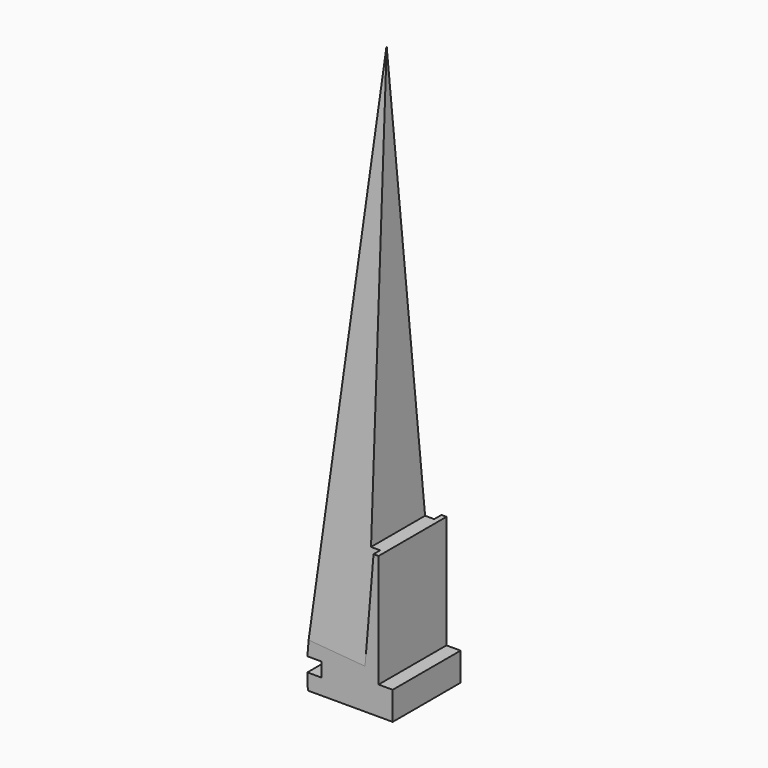
from build123d import *

# Parameters (mm, degrees)
F1_DEPTH = 76.2
F4_DEPTH = 25.4
F6_DEPTH = 25.4
F7_DEPTH = 25.4
F8_DEPTH = 25.4


with BuildPart() as f1:
    # F0 (on Front) → F1 (new body)
    with BuildSketch(Plane.XZ):
        Polygon((-40.0857904882, 1.7159489595), (36.1142095118, 1.7159489595), (36.1142095118, 27.1159489595), (23.4142095118, 27.1159489595), (23.4142095118, 128.7159489595), (10.7142095118, 128.7159489595), (0, 509.5652704956), (-40.4825732112, 28.6661945283), (-27.7825732112, 28.6661945283), (-27.7825732112, 15.9661945283), (-40.4825732112, 15.9661945283), align=None)
    extrude(amount=F1_DEPTH)

    # F3 (on face) → F4 (cut)
    with BuildSketch(Plane(origin=(-42.5938834628, 0, 3.585596421), x_dir=(0, -1, 0), z_dir=(-0.9964754993, 0, 0.0838843208))):
        Polygon((37.7841320195, 507.7693073485), (76.2, 38.4734290846), (76.2, 507.7693073485), align=None)
    extrude(amount=-F4_DEPTH, mode=Mode.SUBTRACT)

    # F5 (on face) → F6 (cut)
    with BuildSketch(Plane(origin=(-42.5938834628, 0, 3.585596421), x_dir=(0, -1, 0), z_dir=(-0.9964754993, 0, 0.0838843208))):
        Polygon((0, 25.9728506207), (37.9639834193, 507.7693073485), (0, 507.7693073485), align=None)
    extrude(amount=-F6_DEPTH, mode=Mode.SUBTRACT)

    # F7 (cut): a face of the model
    f7_faces = [f1.faces().sort_by_distance(p)[0] for p in [
        (-0.4288778428, -69.5509425431, 201.6726152219),
    ]]
    extrude(f7_faces, amount=-F7_DEPTH, mode=Mode.SUBTRACT)

    # F8 (cut): a face of the model
    f8_faces = [f1.faces().sort_by_distance(p)[0] for p in [
        (-0.7784120208, -6.7286940969, 197.5204418331),
    ]]
    extrude(f8_faces, amount=-F8_DEPTH, mode=Mode.SUBTRACT)


solid = f1.part
